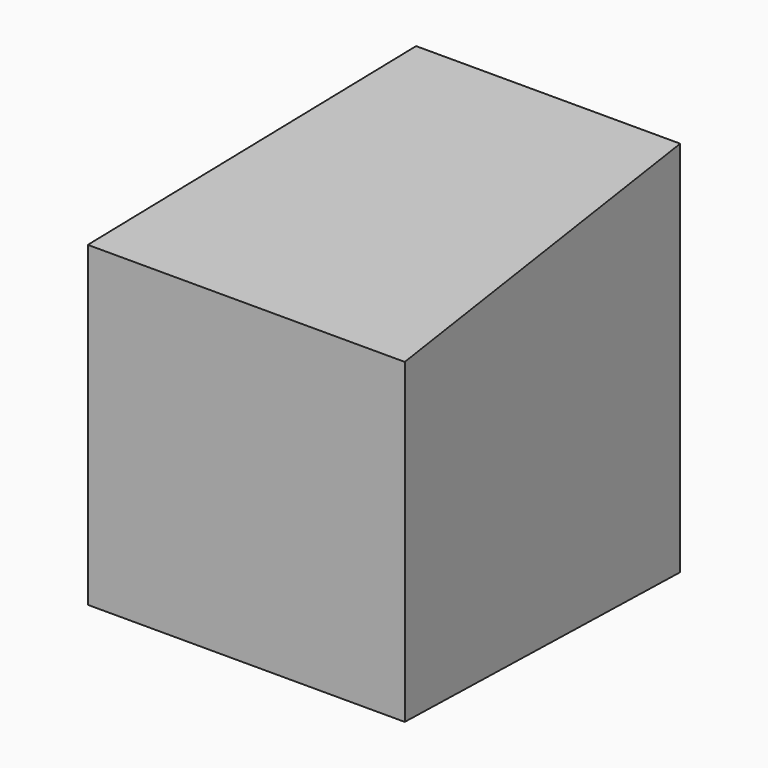
from build123d import *

# Parameters (mm, degrees)
F0_W = 350
F0_H = 500
F2_W = 420
F2_H = 420


with BuildPart() as f3:
    # F0 (on Front) → F3 section 0
    with BuildSketch(Plane.XZ):
        with Locations((175, 250)):
            Rectangle(F0_W, F0_H)
    # F2 (on offset) → F3 section 1
    with BuildSketch(Plane.XZ.offset(500)):
        with Locations((175, 250)):
            Rectangle(F2_W, F2_H)
    loft()


solid = f3.part
